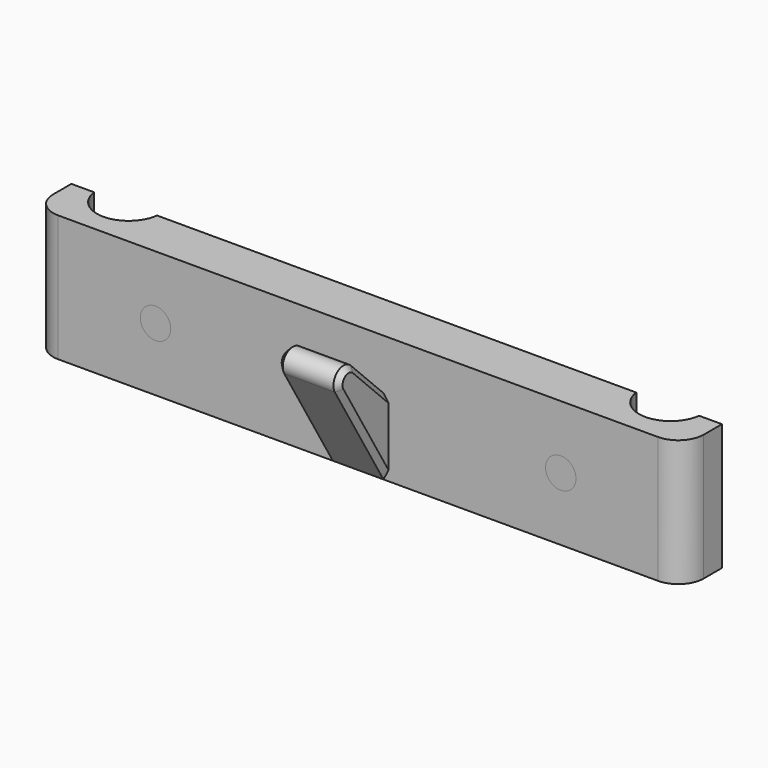
from build123d import *

# Parameters (mm, degrees)
PAD_DEPTH           = 12.5
SKETCH001_R         = 2
HOLE_DEPTH          = 5.5
PAD001_DEPTH        = 6
CHAMFER_SIZE        = 1
PAD002_DEPTH        = 12.5
HOLE001_D           = 3.3
HOLE001_DEPTH       = 25
HOLE001_CSINK_D     = 6
HOLE001_CSINK_ANGLE = 90


with BuildPart() as body_haken:
    # Sketch → Pad (new body, symmetric)
    with BuildSketch(Plane.XY):
        with BuildLine():
            Line((-64.204837, 0), (-59.704837, 0))
            ThreePointArc((-59.704837, 0), (-53.5, -5.5), (-47.295163, 0))
            Line((-47.295163, 0), (47.295163, 0))
            ThreePointArc((47.295163, 0), (53.5, -5.5), (59.704837, 0))
            Line((59.704837, 0), (64.204837, 0))
            Line((64.204837, 0), (64.204837, -4.5))
            ThreePointArc((59.204837, -9.5), (62.740371, -8.035534), (64.204837, -4.5))
            Line((59.204837, -9.5), (-59.204837, -9.5))
            ThreePointArc((-64.204837, -4.5), (-62.740371, -8.035534), (-59.204837, -9.5))
            Line((-64.204837, -4.5), (-64.204837, 0))
        make_face()
    extrude(amount=PAD_DEPTH, both=True)

    # Sketch001 → Hole (cut)
    with BuildSketch(Plane.XZ):
        with Locations((-40, 0)):
            Circle(SKETCH001_R)
        with Locations((40, 0)):
            Circle(SKETCH001_R)
    extrude(amount=HOLE_DEPTH, mode=Mode.SUBTRACT)

    # Sketch002 → Pad001 (join, symmetric)
    with BuildSketch(Plane.YZ):
        with BuildLine():
            Line((-9.5, -12.5), (-21.5, 7.53516))
            ThreePointArc((-17.587505, 10.587505), (-20.893039, 10.790847), (-21.5, 7.53516))
            Line((-17.587505, 10.587505), (-9.5, 2.5))
            Line((-9.5, 2.5), (-9.5, -12.5))
        make_face()
    extrude(amount=PAD001_DEPTH, both=True)

    # Chamfer
    chamfer_edges = [body_haken.edges().sort_by_distance(p)[0] for p in [
        (6, -13.543753, 6.543753),
        (-6, -13.543753, 6.543753),
    ]]
    chamfer(chamfer_edges, length=CHAMFER_SIZE)


with BuildPart() as body_rueckseite:
    # Sketch003 → Pad002 (new body, symmetric)
    with BuildSketch(Plane.XY):
        with BuildLine():
            Line((-64.204837, 0), (-59.704837, 0))
            ThreePointArc((-59.704837, 0), (-53.5, -5.5), (-47.295163, 0))
            Line((-47.295163, 0), (47.295163, 0))
            ThreePointArc((47.295163, 0), (53.5, -5.5), (59.704837, 0))
            Line((59.704837, 0), (64.204837, 0))
            Line((64.204837, 0), (64.204837, -4.5))
            ThreePointArc((59.204837, -9.5), (62.740371, -8.035534), (64.204837, -4.5))
            Line((59.204837, -9.5), (-59.204837, -9.5))
            ThreePointArc((-64.204837, -4.5), (-62.740371, -8.035534), (-59.204837, -9.5))
            Line((-64.204837, -4.5), (-64.204837, 0))
        make_face()
    extrude(amount=PAD002_DEPTH, both=True)

    # Hole001
    with Locations(Plane.XZ.offset(9.5)):
        with Locations((-40, 0), (40, 0)):
            CounterSinkHole(HOLE001_D / 2, HOLE001_CSINK_D / 2, depth=HOLE001_DEPTH, counter_sink_angle=HOLE001_CSINK_ANGLE)


solid = Compound([body_haken.part, body_rueckseite.part])
